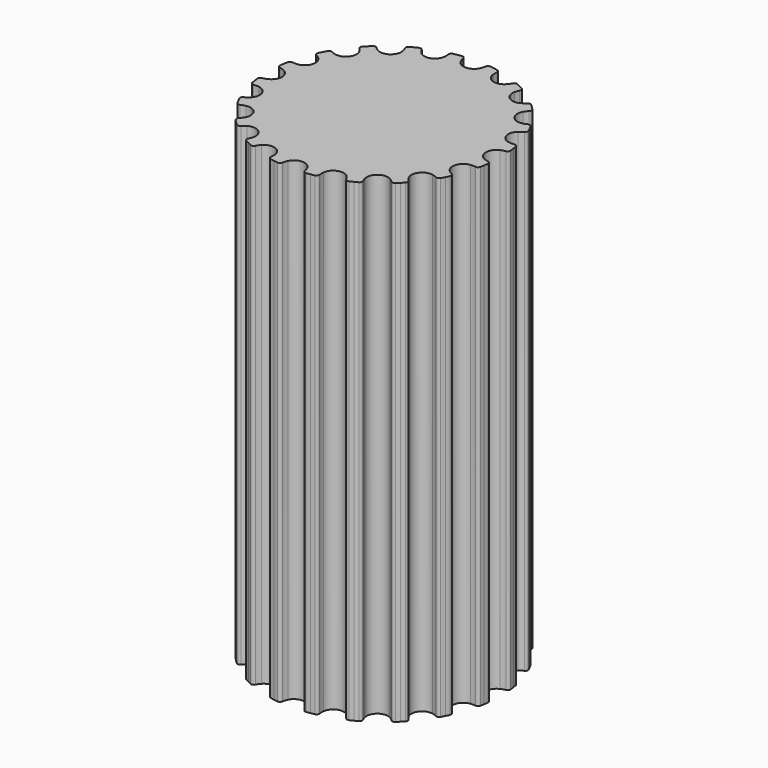
from build123d import *

# Parameters (mm, degrees)
F1_DEPTH = 25


with BuildPart() as f1:
    # F0 (on Top) → F1 (new body)
    with BuildSketch(Plane.XY):
        with BuildLine():
            ThreePointArc((-0.509091, 5.699453), (-0.55615, 5.823173), (-0.586456, 5.952026))
            ThreePointArc((-0.586456, 5.952026), (-0.64468, 6.047613), (-0.752869, 6.076284))
            ThreePointArc((-0.752869, 6.076284), (-0.855461, 6.062691), (-0.957809, 6.047366))
            ThreePointArc((-0.957809, 6.047366), (-1.059883, 6.030314), (-1.161654, 6.011539))
            ThreePointArc((-1.161654, 6.011539), (-1.255688, 5.950839), (-1.281524, 5.841938))
            ThreePointArc((-1.281524, 5.841938), (-1.270529, 5.710027), (-1.277054, 5.577819))
            ThreePointArc((-1.277054, 5.577819), (-1.66027, 5.109786), (-2.245402, 5.263184))
            ThreePointArc((-2.245402, 5.263184), (-2.32839, 5.366307), (-2.39703, 5.479488))
            ThreePointArc((-2.39703, 5.479488), (-2.481942, 5.552405), (-2.593696, 5.54624))
            ThreePointArc((-2.593696, 5.54624), (-2.687066, 5.50161), (-2.779669, 5.455408))
            ThreePointArc((-2.779669, 5.455408), (-2.871478, 5.407647), (-2.962466, 5.358342))
            ThreePointArc((-2.962466, 5.358342), (-3.033141, 5.271555), (-3.02406, 5.16))
            ThreePointArc((-3.02406, 5.16), (-2.972841, 5.037943), (-2.938191, 4.91019))
            ThreePointArc((-2.938191, 4.91019), (-3.158022, 4.346644), (-3.761917, 4.311718))
            ThreePointArc((-3.761917, 4.311718), (-3.87271, 4.384149), (-3.972966, 4.47058))
            ThreePointArc((-3.972966, 4.47058), (-4.076255, 4.513688), (-4.180634, 4.473291))
            ThreePointArc((-4.180634, 4.473291), (-4.255643, 4.401993), (-4.329436, 4.329436))
            ThreePointArc((-4.329436, 4.329436), (-4.401993, 4.255643), (-4.473291, 4.180634))
            ThreePointArc((-4.473291, 4.180634), (-4.513688, 4.076255), (-4.47058, 3.972966))
            ThreePointArc((-4.47058, 3.972966), (-4.384149, 3.87271), (-4.311718, 3.761917))
            ThreePointArc((-4.311718, 3.761917), (-4.346644, 3.158022), (-4.91019, 2.938191))
            ThreePointArc((-4.91019, 2.938191), (-5.037943, 2.972841), (-5.16, 3.02406))
            ThreePointArc((-5.16, 3.02406), (-5.271555, 3.033141), (-5.358342, 2.962466))
            ThreePointArc((-5.358342, 2.962466), (-5.407647, 2.871478), (-5.455408, 2.779669))
            ThreePointArc((-5.455408, 2.779669), (-5.50161, 2.687066), (-5.54624, 2.593696))
            ThreePointArc((-5.54624, 2.593696), (-5.552405, 2.481942), (-5.479488, 2.39703))
            ThreePointArc((-5.479488, 2.39703), (-5.366307, 2.32839), (-5.263184, 2.245402))
            ThreePointArc((-5.263184, 2.245402), (-5.109786, 1.66027), (-5.577819, 1.277054))
            ThreePointArc((-5.577819, 1.277054), (-5.710027, 1.270529), (-5.841938, 1.281524))
            ThreePointArc((-5.841938, 1.281524), (-5.950839, 1.255688), (-6.011539, 1.161654))
            ThreePointArc((-6.011539, 1.161654), (-6.030314, 1.059883), (-6.047366, 0.957809))
            ThreePointArc((-6.047366, 0.957809), (-6.062691, 0.855461), (-6.076284, 0.752869))
            ThreePointArc((-6.076284, 0.752869), (-6.047613, 0.64468), (-5.952026, 0.586456))
            ThreePointArc((-5.952026, 0.586456), (-5.823173, 0.55615), (-5.699453, 0.509091))
            ThreePointArc((-5.699453, 0.509091), (-5.372747, 0), (-5.699453, -0.509091))
            ThreePointArc((-5.699453, -0.509091), (-5.823173, -0.55615), (-5.952026, -0.586456))
            ThreePointArc((-5.952026, -0.586456), (-6.047613, -0.64468), (-6.076284, -0.752869))
            ThreePointArc((-6.076284, -0.752869), (-6.062691, -0.855461), (-6.047366, -0.957809))
            ThreePointArc((-6.047366, -0.957809), (-6.030314, -1.059883), (-6.011539, -1.161654))
            ThreePointArc((-6.011539, -1.161654), (-5.950839, -1.255688), (-5.841938, -1.281524))
            ThreePointArc((-5.841938, -1.281524), (-5.710027, -1.270529), (-5.577819, -1.277054))
            ThreePointArc((-5.577819, -1.277054), (-5.109786, -1.66027), (-5.263184, -2.245402))
            ThreePointArc((-5.263184, -2.245402), (-5.366307, -2.32839), (-5.479488, -2.39703))
            ThreePointArc((-5.479488, -2.39703), (-5.552405, -2.481942), (-5.54624, -2.593696))
            ThreePointArc((-5.54624, -2.593696), (-5.50161, -2.687066), (-5.455408, -2.779669))
            ThreePointArc((-5.455408, -2.779669), (-5.407647, -2.871478), (-5.358342, -2.962466))
            ThreePointArc((-5.358342, -2.962466), (-5.271555, -3.033141), (-5.16, -3.02406))
            ThreePointArc((-5.16, -3.02406), (-5.037943, -2.972841), (-4.91019, -2.938191))
            ThreePointArc((-4.91019, -2.938191), (-4.346644, -3.158022), (-4.311718, -3.761917))
            ThreePointArc((-4.311718, -3.761917), (-4.384149, -3.87271), (-4.47058, -3.972966))
            ThreePointArc((-4.47058, -3.972966), (-4.513688, -4.076255), (-4.473291, -4.180634))
            ThreePointArc((-4.473291, -4.180634), (-4.401993, -4.255643), (-4.329436, -4.329436))
            ThreePointArc((-4.329436, -4.329436), (-4.255643, -4.401993), (-4.180634, -4.473291))
            ThreePointArc((-4.180634, -4.473291), (-4.076255, -4.513688), (-3.972966, -4.47058))
            ThreePointArc((-3.972966, -4.47058), (-3.87271, -4.384149), (-3.761917, -4.311718))
            ThreePointArc((-3.761917, -4.311718), (-3.158022, -4.346644), (-2.938191, -4.91019))
            ThreePointArc((-2.938191, -4.91019), (-2.972841, -5.037943), (-3.02406, -5.16))
            ThreePointArc((-3.02406, -5.16), (-3.033141, -5.271555), (-2.962466, -5.358342))
            ThreePointArc((-2.962466, -5.358342), (-2.871478, -5.407647), (-2.779669, -5.455408))
            ThreePointArc((-2.779669, -5.455408), (-2.687066, -5.50161), (-2.593696, -5.54624))
            ThreePointArc((-2.593696, -5.54624), (-2.481942, -5.552405), (-2.39703, -5.479488))
            ThreePointArc((-2.39703, -5.479488), (-2.32839, -5.366307), (-2.245402, -5.263184))
            ThreePointArc((-2.245402, -5.263184), (-1.66027, -5.109786), (-1.277054, -5.577819))
            ThreePointArc((-1.277054, -5.577819), (-1.270529, -5.710027), (-1.281524, -5.841938))
            ThreePointArc((-1.281524, -5.841938), (-1.255688, -5.950839), (-1.161654, -6.011539))
            ThreePointArc((-1.161654, -6.011539), (-1.059883, -6.030314), (-0.957809, -6.047366))
            ThreePointArc((-0.957809, -6.047366), (-0.855461, -6.062691), (-0.752869, -6.076284))
            ThreePointArc((-0.752869, -6.076284), (-0.64468, -6.047613), (-0.586456, -5.952026))
            ThreePointArc((-0.586456, -5.952026), (-0.55615, -5.823173), (-0.509091, -5.699453))
            ThreePointArc((-0.509091, -5.699453), (0, -5.372747), (0.509091, -5.699453))
            ThreePointArc((0.509091, -5.699453), (0.55615, -5.823173), (0.586456, -5.952026))
            ThreePointArc((0.586456, -5.952026), (0.64468, -6.047613), (0.752869, -6.076284))
            ThreePointArc((0.752869, -6.076284), (0.855461, -6.062691), (0.957809, -6.047366))
            ThreePointArc((0.957809, -6.047366), (1.059883, -6.030314), (1.161654, -6.011539))
            ThreePointArc((1.161654, -6.011539), (1.255688, -5.950839), (1.281524, -5.841938))
            ThreePointArc((1.281524, -5.841938), (1.270529, -5.710027), (1.277054, -5.577819))
            ThreePointArc((1.277054, -5.577819), (1.66027, -5.109786), (2.245402, -5.263184))
            ThreePointArc((2.245402, -5.263184), (2.32839, -5.366307), (2.39703, -5.479488))
            ThreePointArc((2.39703, -5.479488), (2.481942, -5.552405), (2.593696, -5.54624))
            ThreePointArc((2.593696, -5.54624), (2.687066, -5.50161), (2.779669, -5.455408))
            ThreePointArc((2.779669, -5.455408), (2.871478, -5.407647), (2.962466, -5.358342))
            ThreePointArc((2.962466, -5.358342), (3.033141, -5.271555), (3.02406, -5.16))
            ThreePointArc((3.02406, -5.16), (2.972841, -5.037943), (2.938191, -4.91019))
            ThreePointArc((2.938191, -4.91019), (3.158022, -4.346644), (3.761917, -4.311718))
            ThreePointArc((3.761917, -4.311718), (3.87271, -4.384149), (3.972966, -4.47058))
            ThreePointArc((3.972966, -4.47058), (4.076255, -4.513688), (4.180634, -4.473291))
            ThreePointArc((4.180634, -4.473291), (4.255643, -4.401993), (4.329436, -4.329436))
            ThreePointArc((4.329436, -4.329436), (4.401993, -4.255643), (4.473291, -4.180634))
            ThreePointArc((4.473291, -4.180634), (4.513688, -4.076255), (4.47058, -3.972966))
            ThreePointArc((4.47058, -3.972966), (4.384149, -3.87271), (4.311718, -3.761917))
            ThreePointArc((4.311718, -3.761917), (4.346644, -3.158022), (4.91019, -2.938191))
            ThreePointArc((4.91019, -2.938191), (5.037943, -2.972841), (5.16, -3.02406))
            ThreePointArc((5.16, -3.02406), (5.271555, -3.033141), (5.358342, -2.962466))
            ThreePointArc((5.358342, -2.962466), (5.407647, -2.871478), (5.455408, -2.779669))
            ThreePointArc((5.455408, -2.779669), (5.50161, -2.687066), (5.54624, -2.593696))
            ThreePointArc((5.54624, -2.593696), (5.552405, -2.481942), (5.479488, -2.39703))
            ThreePointArc((5.479488, -2.39703), (5.366307, -2.32839), (5.263184, -2.245402))
            ThreePointArc((5.263184, -2.245402), (5.109786, -1.66027), (5.577819, -1.277054))
            ThreePointArc((5.577819, -1.277054), (5.710027, -1.270529), (5.841938, -1.281524))
            ThreePointArc((5.841938, -1.281524), (5.950839, -1.255688), (6.011539, -1.161654))
            ThreePointArc((6.011539, -1.161654), (6.030314, -1.059883), (6.047366, -0.957809))
            ThreePointArc((6.047366, -0.957809), (6.062691, -0.855461), (6.076284, -0.752869))
            ThreePointArc((6.076284, -0.752869), (6.047613, -0.64468), (5.952026, -0.586456))
            ThreePointArc((5.952026, -0.586456), (5.823173, -0.55615), (5.699453, -0.509091))
            ThreePointArc((5.699453, -0.509091), (5.372747, 0), (5.699453, 0.509091))
            ThreePointArc((5.699453, 0.509091), (5.823173, 0.55615), (5.952026, 0.586456))
            ThreePointArc((5.952026, 0.586456), (6.047613, 0.64468), (6.076284, 0.752869))
            ThreePointArc((6.076284, 0.752869), (6.062691, 0.855461), (6.047366, 0.957809))
            ThreePointArc((6.047366, 0.957809), (6.030314, 1.059883), (6.011539, 1.161654))
            ThreePointArc((6.011539, 1.161654), (5.950839, 1.255688), (5.841938, 1.281524))
            ThreePointArc((5.841938, 1.281524), (5.710027, 1.270529), (5.577819, 1.277054))
            ThreePointArc((5.577819, 1.277054), (5.109786, 1.66027), (5.263184, 2.245402))
            ThreePointArc((5.263184, 2.245402), (5.366307, 2.32839), (5.479488, 2.39703))
            ThreePointArc((5.479488, 2.39703), (5.552405, 2.481942), (5.54624, 2.593696))
            ThreePointArc((5.54624, 2.593696), (5.50161, 2.687066), (5.455408, 2.779669))
            ThreePointArc((5.455408, 2.779669), (5.407647, 2.871478), (5.358342, 2.962466))
            ThreePointArc((5.358342, 2.962466), (5.271555, 3.033141), (5.16, 3.02406))
            ThreePointArc((5.16, 3.02406), (5.037943, 2.972841), (4.91019, 2.938191))
            ThreePointArc((4.91019, 2.938191), (4.346644, 3.158022), (4.311718, 3.761917))
            ThreePointArc((4.311718, 3.761917), (4.384149, 3.87271), (4.47058, 3.972966))
            ThreePointArc((4.47058, 3.972966), (4.513688, 4.076255), (4.473291, 4.180634))
            ThreePointArc((4.473291, 4.180634), (4.401993, 4.255643), (4.329436, 4.329436))
            ThreePointArc((4.329436, 4.329436), (4.255643, 4.401993), (4.180634, 4.473291))
            ThreePointArc((4.180634, 4.473291), (4.076255, 4.513688), (3.972966, 4.47058))
            ThreePointArc((3.972966, 4.47058), (3.87271, 4.384149), (3.761917, 4.311718))
            ThreePointArc((3.761917, 4.311718), (3.158022, 4.346644), (2.938191, 4.91019))
            ThreePointArc((2.938191, 4.91019), (2.972841, 5.037943), (3.02406, 5.16))
            ThreePointArc((3.02406, 5.16), (3.033141, 5.271555), (2.962466, 5.358342))
            ThreePointArc((2.962466, 5.358342), (2.871478, 5.407647), (2.779669, 5.455408))
            ThreePointArc((2.779669, 5.455408), (2.687066, 5.50161), (2.593696, 5.54624))
            ThreePointArc((2.593696, 5.54624), (2.481942, 5.552405), (2.39703, 5.479488))
            ThreePointArc((2.39703, 5.479488), (2.32839, 5.366307), (2.245402, 5.263184))
            ThreePointArc((2.245402, 5.263184), (1.66027, 5.109786), (1.277054, 5.577819))
            ThreePointArc((1.277054, 5.577819), (1.270529, 5.710027), (1.281524, 5.841938))
            ThreePointArc((1.281524, 5.841938), (1.255688, 5.950839), (1.161654, 6.011539))
            ThreePointArc((1.161654, 6.011539), (1.059883, 6.030314), (0.957809, 6.047366))
            ThreePointArc((0.957809, 6.047366), (0.855461, 6.062691), (0.752869, 6.076284))
            ThreePointArc((0.752869, 6.076284), (0.64468, 6.047613), (0.586456, 5.952026))
            ThreePointArc((0.586456, 5.952026), (0.55615, 5.823173), (0.509091, 5.699453))
            ThreePointArc((0.509091, 5.699453), (0, 5.372747), (-0.509091, 5.699453))
        make_face()
    extrude(amount=F1_DEPTH)


solid = f1.part
